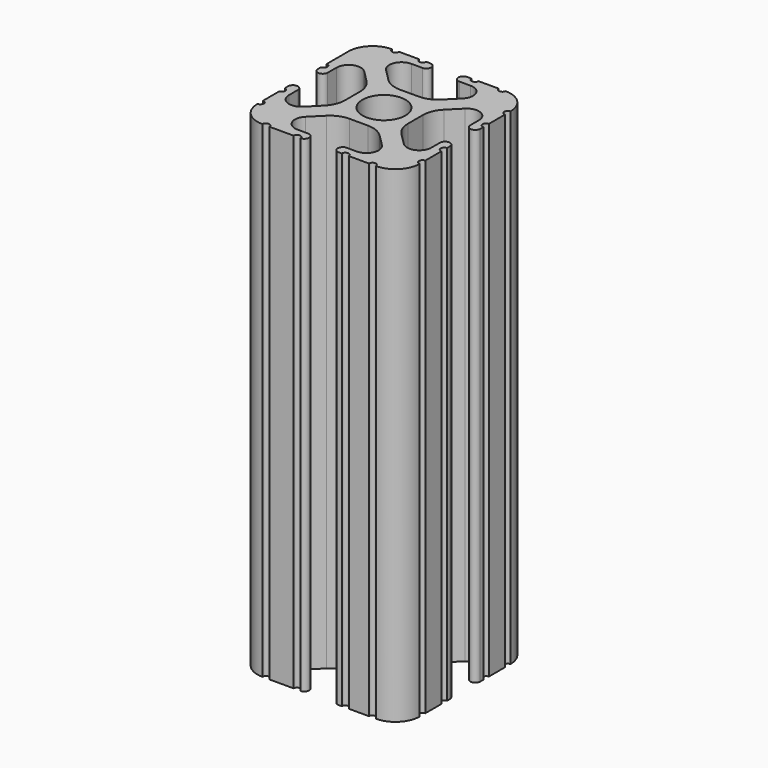
from build123d import *

# Parameters (mm, degrees)
F0_R     = 3.362501
F1_DEPTH = 76.2


with BuildPart() as f1:
    # F0 (on Top) → F1 (new body)
    with BuildSketch(Plane.XY):
        with BuildLine():
            ThreePointArc((-8.548576, 18.755238), (-9.784629, 17.929334), (-11.242653, 17.639315))
            Line((-11.242653, 17.639315), (-14.157347, 17.639315))
            ThreePointArc((-14.157347, 17.639315), (-15.615371, 17.929334), (-16.851424, 18.755238))
            Line((-16.851424, 18.755238), (-18.696905, 20.600719))
            ThreePointArc((-18.696905, 20.600719), (-19.109857, 22.67677), (-17.349867, 23.852758))
            Line((-17.349867, 23.852758), (-15.615371, 23.852758))
            Line((-15.615371, 23.852758), (-15.58302, 23.852758))
            ThreePointArc((-15.58302, 23.852758), (-14.825405, 24.626379), (-15.58302, 25.4))
            Line((-15.58302, 25.4), (-15.615371, 25.4))
            Line((-15.615371, 25.4), (-16.253341, 25.4))
            ThreePointArc((-16.253341, 25.4), (-16.801604, 24.858772), (-17.349867, 25.4))
            Line((-17.349867, 25.4), (-20.487482, 25.4))
            ThreePointArc((-20.487482, 25.4), (-21.038741, 24.848741), (-21.59, 25.4))
            ThreePointArc((-21.59, 25.4), (-24.284077, 24.284077), (-25.4, 21.59))
            Line((-25.4, 21.59), (-25.4, 20.504724))
            Line((-25.4, 20.504724), (-25.4, 17.349867))
            ThreePointArc((-25.4, 17.349867), (-24.844161, 16.802675), (-25.4, 16.255483))
            Line((-25.4, 16.255483), (-25.4, 15.615371))
            ThreePointArc((-25.4, 15.615371), (-24.626379, 14.859554), (-23.852758, 15.615371))
            Line((-23.852758, 15.615371), (-23.852758, 17.349867))
            ThreePointArc((-23.852758, 17.349867), (-22.67677, 19.109857), (-20.600719, 18.696905))
            Line((-20.600719, 18.696905), (-18.755238, 16.851424))
            ThreePointArc((-18.755238, 16.851424), (-17.929334, 15.615371), (-17.639315, 14.157347))
            Line((-17.639315, 14.157347), (-17.639315, 11.242653))
            ThreePointArc((-17.639315, 11.242653), (-17.929334, 9.784629), (-18.755238, 8.548576))
            Line((-18.755238, 8.548576), (-20.600719, 6.703095))
            ThreePointArc((-20.600719, 6.703095), (-22.67677, 6.290143), (-23.852758, 8.050133))
            Line((-23.852758, 8.050133), (-23.852758, 9.784629))
            ThreePointArc((-23.852758, 9.784629), (-24.626379, 10.55825), (-25.4, 9.784629))
            Line((-25.4, 9.784629), (-25.4, 9.149239))
            ThreePointArc((-25.4, 9.149239), (-24.899374, 8.599686), (-25.4, 8.050133))
            Line((-25.4, 8.050133), (-25.4, 4.904538))
            ThreePointArc((-25.4, 4.904538), (-24.846216, 4.357269), (-25.4, 3.81))
            ThreePointArc((-25.4, 3.81), (-24.284077, 1.115923), (-21.59, 0))
            ThreePointArc((-21.59, 0), (-21.040817, 0.554885), (-20.491634, 0))
            Line((-20.491634, 0), (-16.708169, 0))
            ThreePointArc((-16.708169, 0), (-16.16177, 0.540135), (-15.615371, 0))
            ThreePointArc((-15.615371, 0), (-14.854184, 0.7747), (-15.615371, 1.5494))
            Line((-15.615371, 1.5494), (-17.347709, 1.5494))
            ThreePointArc((-17.347709, 1.5494), (-19.107699, 2.725388), (-18.694747, 4.801438))
            Line((-18.694747, 4.801438), (-16.851424, 6.644762))
            ThreePointArc((-16.851424, 6.644762), (-15.615371, 7.470666), (-14.157347, 7.760685))
            Line((-14.157347, 7.760685), (-11.242653, 7.760685))
            ThreePointArc((-11.242653, 7.760685), (-9.784629, 7.470666), (-8.548576, 6.644762))
            Line((-8.548576, 6.644762), (-6.705253, 4.801438))
            ThreePointArc((-6.705253, 4.801438), (-6.292301, 2.725388), (-8.052291, 1.5494))
            Line((-8.052291, 1.5494), (-9.784629, 1.5494))
            ThreePointArc((-9.784629, 1.5494), (-10.401836, 0.7747), (-9.784629, 0))
            Line((-9.784629, 0), (-9.152868, 0))
            ThreePointArc((-9.152868, 0), (-8.602579, 0.545262), (-8.052291, 0))
            Line((-8.052291, 0), (-4.898866, 0))
            ThreePointArc((-4.898866, 0), (-4.354433, 0.544433), (-3.81, 0))
            ThreePointArc((-3.81, 0), (-1.115923, 1.115923), (0, 3.81))
            ThreePointArc((0, 3.81), (-0.53938, 4.3561), (0, 4.9022))
            Line((0, 4.9022), (0, 8.052291))
            ThreePointArc((0, 8.052291), (-0.543517, 8.60166), (0, 9.151029))
            Line((0, 9.151029), (0, 9.784629))
            ThreePointArc((0, 9.784629), (-0.7747, 10.504691), (-1.5494, 9.784629))
            Line((-1.5494, 9.784629), (-1.5494, 8.052291))
            ThreePointArc((-1.5494, 8.052291), (-2.725388, 6.292301), (-4.801438, 6.705253))
            Line((-4.801438, 6.705253), (-6.644762, 8.548576))
            ThreePointArc((-6.644762, 8.548576), (-7.470666, 9.784629), (-7.760685, 11.242653))
            Line((-7.760685, 11.242653), (-7.760685, 14.157347))
            ThreePointArc((-7.760685, 14.157347), (-7.470666, 15.615371), (-6.644762, 16.851424))
            Line((-6.644762, 16.851424), (-4.801438, 18.694747))
            ThreePointArc((-4.801438, 18.694747), (-2.725388, 19.107699), (-1.5494, 17.347709))
            Line((-1.5494, 17.347709), (-1.5494, 15.615371))
            ThreePointArc((-1.5494, 15.615371), (-0.7747, 14.879405), (0, 15.615371))
            Line((0, 15.615371), (0, 16.255509))
            ThreePointArc((0, 16.255509), (-0.5461, 16.801609), (0, 17.347709))
            Line((0, 17.347709), (0, 20.495165))
            ThreePointArc((0, 20.495165), (-0.551056, 21.042583), (0, 21.59))
            ThreePointArc((0, 21.59), (-1.115923, 24.284077), (-3.81, 25.4))
            ThreePointArc((-3.81, 25.4), (-4.365303, 24.903619), (-4.920606, 25.4))
            Line((-4.920606, 25.4), (-8.050133, 25.4))
            ThreePointArc((-8.050133, 25.4), (-8.596365, 24.859433), (-9.142596, 25.4))
            Line((-9.142596, 25.4), (-9.784629, 25.4))
            Line((-9.784629, 25.4), (-9.856203, 25.4))
            ThreePointArc((-9.856203, 25.4), (-10.594864, 24.626379), (-9.856203, 23.852758))
            Line((-9.856203, 23.852758), (-9.784629, 23.852758))
            Line((-9.784629, 23.852758), (-8.050133, 23.852758))
            ThreePointArc((-8.050133, 23.852758), (-6.290143, 22.67677), (-6.703095, 20.600719))
            Line((-6.703095, 20.600719), (-8.548576, 18.755238))
        make_face()
        with Locations((-12.7, 12.7)):
            Circle(F0_R, mode=Mode.SUBTRACT)
        with BuildLine():
            ThreePointArc((-9.856203, 23.852758), (-9.820416, 23.851931), (-9.784629, 23.852758))
            Line((-9.784629, 23.852758), (-9.856203, 23.852758))
        make_face()
        with BuildLine():
            Line((-15.58302, 23.852758), (-15.615371, 23.852758))
            ThreePointArc((-15.615371, 23.852758), (-15.599195, 23.852589), (-15.58302, 23.852758))
        make_face()
        with BuildLine():
            ThreePointArc((-9.784629, 25.4), (-9.820416, 25.400827), (-9.856203, 25.4))
            Line((-9.856203, 25.4), (-9.784629, 25.4))
        make_face()
        with BuildLine():
            Line((-15.615371, 25.4), (-15.58302, 25.4))
            ThreePointArc((-15.58302, 25.4), (-15.599195, 25.400169), (-15.615371, 25.4))
        make_face()
    extrude(amount=F1_DEPTH)


solid = f1.part
